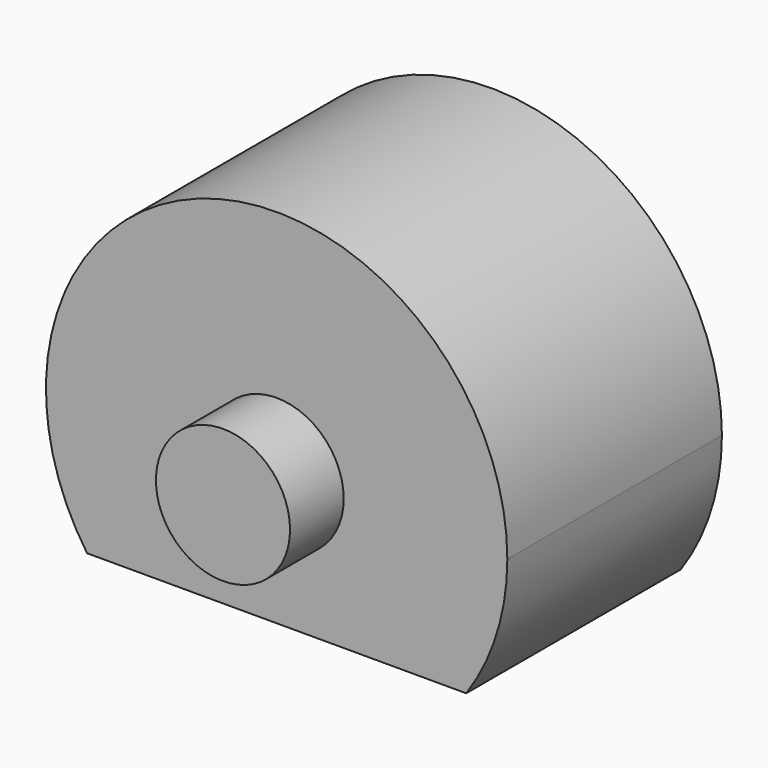
from build123d import *

# Parameters (mm, degrees)
F0_R     = 3.175
F1_DEPTH = 6.35
F2_DEPTH = 9.525
F3_R     = 3.175
F4_DEPTH = 12.7


with BuildPart() as f1:
    # F0 (on Front) → F1 (new body, symmetric)
    with BuildSketch(Plane.XZ):
        with BuildLine():
            ThreePointArc((8.975765, -6.223), (10.424092, -3.260121), (10.922, 0))
            ThreePointArc((10.922, 0), (-3.260121, 10.424092), (-8.975765, -6.223))
            Line((-8.975765, -6.223), (8.975765, -6.223))
        make_face()
        Circle(F0_R, mode=Mode.SUBTRACT)
    extrude(amount=F1_DEPTH, both=True)

    # F0 (on Front) → F2 (join, symmetric)
    with BuildSketch(Plane.XZ):
        Circle(F0_R)
    extrude(amount=F2_DEPTH, both=True)

    # F3 (on face) → F4 (cut)
    with BuildSketch(Plane(origin=(0, 0, -6.223), x_dir=(1, 0, 0), z_dir=(0, 0, -1))):
        Circle(F3_R)
    extrude(amount=-F4_DEPTH, mode=Mode.SUBTRACT)


solid = f1.part
